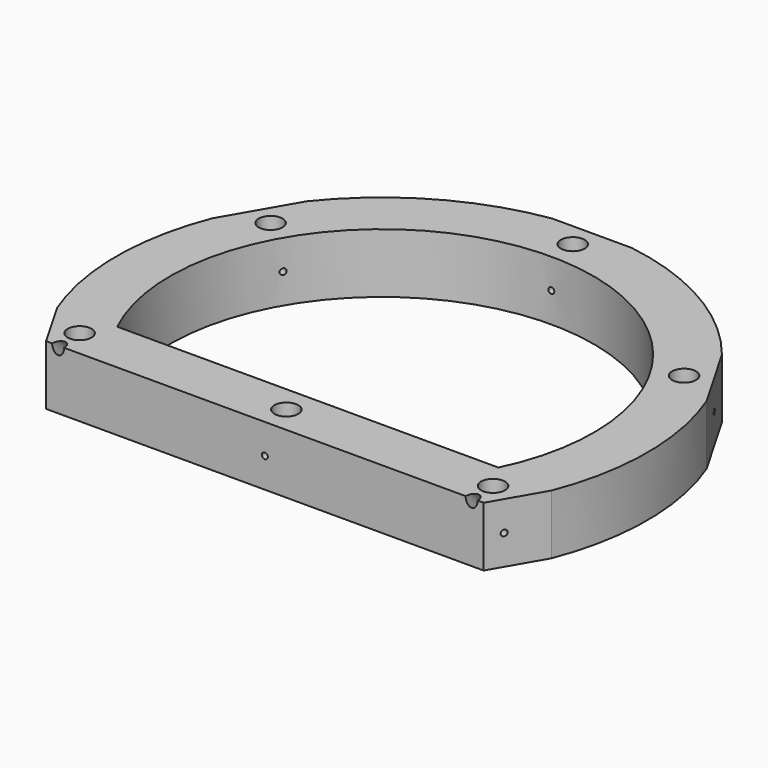
from build123d import *

# Parameters (mm, degrees)
F0_R      = 2
F1_DEPTH  = 10
F3_R      = 1
F4_DEPTH  = 5
F5_R      = 0.5
F6_DEPTH  = 104.53913
F7_R      = 0.5
F8_DEPTH  = 94.789131
F9_R      = 0.5
F10_DEPTH = 68.501


with BuildPart() as f1:
    # F0 (on Top) → F1 (new body)
    with BuildSketch(Plane.XY):
        with BuildLine():
            Line((36.661742, -24.5), (41.431151, -16.239141))
            ThreePointArc((41.431151, -16.239141), (44.5, 0), (41.431151, 16.239141))
            Line((41.431151, 16.239141), (34.779084, 27.760859))
            ThreePointArc((34.779084, 27.760859), (22.25, 38.53813), (6.652067, 44))
            Line((6.652067, 44), (-6.652067, 44))
            ThreePointArc((-6.652067, 44), (-22.25, 38.53813), (-34.779084, 27.760859))
            Line((-34.779084, 27.760859), (-41.431151, 16.239141))
            ThreePointArc((-41.431151, 16.239141), (-44.5, 0), (-41.431151, -16.239141))
            Line((-41.431151, -16.239141), (-36.661742, -24.5))
            Line((-36.661742, -24.5), (36.661742, -24.5))
        make_face()
        with Locations((-34.641016, -20)):
            Circle(F0_R, mode=Mode.SUBTRACT)
        with Locations((0, -20)):
            Circle(F0_R, mode=Mode.SUBTRACT)
        with Locations((34.641016, -20)):
            Circle(F0_R, mode=Mode.SUBTRACT)
        with Locations((-34.641016, 20)):
            Circle(F0_R, mode=Mode.SUBTRACT)
        with BuildLine():
            Line((31.937439, -15.5), (-31.937439, -15.5))
            ThreePointArc((-31.937439, -15.5), (0, 35.5), (31.937439, -15.5))
        make_face(mode=Mode.SUBTRACT)
        with Locations((0, 40)):
            Circle(F0_R, mode=Mode.SUBTRACT)
        with Locations((34.641016, 20)):
            Circle(F0_R, mode=Mode.SUBTRACT)
    extrude(amount=F1_DEPTH)

    # F3 (on face) → F4 (cut)
    with BuildSketch(Plane(origin=(0, -17.25, 17.25), x_dir=(1, 0, 0), z_dir=(0, -0.707107, 0.707107))):
        with Locations((-34.641016, -10.253048)):
            Circle(F3_R)
        with Locations((34.641016, -10.253048)):
            Circle(F3_R)
    extrude(amount=-F4_DEPTH, mode=Mode.SUBTRACT)

    # F5 (on face) → F6 (cut, through all)
    with BuildSketch(Plane(origin=(38.105118, -22, 0), x_dir=(0.5, 0.866025, 0), z_dir=(0.866025, -0.5, 0))):
        with Locations((0, 5)):
            Circle(F5_R)
    extrude(amount=-F6_DEPTH, mode=Mode.SUBTRACT)

    # F7 (on face) → F8 (cut, through all)
    with BuildSketch(Plane(origin=(38.105118, 22, 0), x_dir=(-0.5, 0.866025, 0), z_dir=(0.866025, 0.5, 0))):
        with Locations((0, 5)):
            Circle(F7_R)
    extrude(amount=-F8_DEPTH, mode=Mode.SUBTRACT)

    # F9 (on face) → F10 (cut, through all)
    with BuildSketch(Plane(origin=(0, 44, 0), x_dir=(-1, 0, 0), z_dir=(0, 1, 0))):
        with Locations((0, 5)):
            Circle(F9_R)
    extrude(amount=-F10_DEPTH, mode=Mode.SUBTRACT)


solid = f1.part
